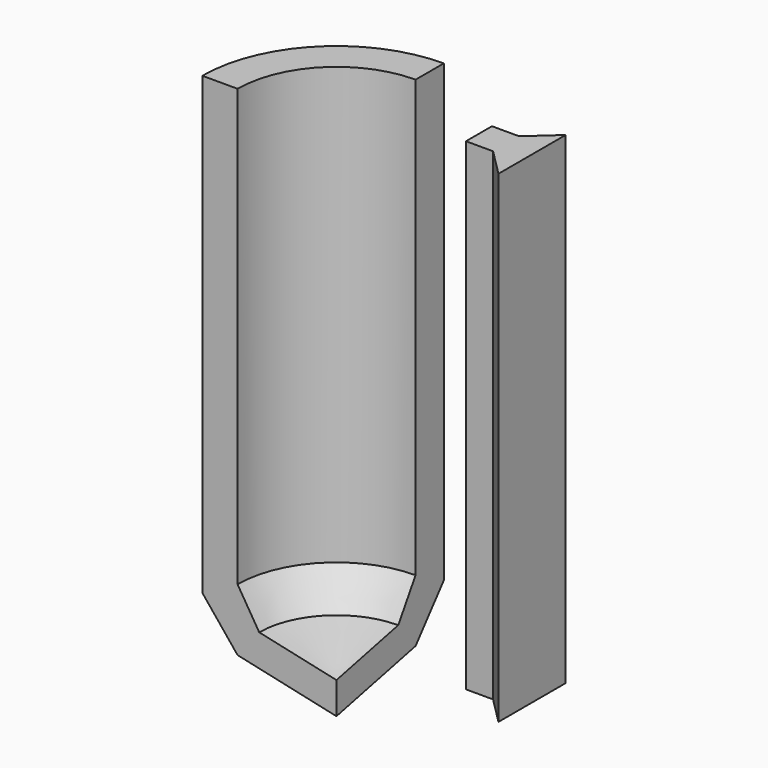
from build123d import *

# Parameters (mm, degrees)
F1_ANGLE = 90
F3_DEPTH = 50


with BuildPart() as f1:
    # F0 (on Front) → F1 (revolve)
    with BuildSketch(Plane.XZ):
        Polygon((-10.247326, 2.245989), (0, 0), (0, 3.299758), (-8.001338, 5.053476), (-10.247326, 8.703209), (-10.247326, 53.903747), (-13.897059, 53.903747), (-13.897059, 6.737968), align=None)
    revolve(axis=Axis((0, 0, 1.649879), (0, 0, -1)), revolution_arc=F1_ANGLE)


with BuildPart() as f3:
    # F2 (on Top) → F3 (new body)
    with BuildSketch(Plane.XY):
        Polygon((8.046627, 13.590597), (5.239141, 13.590597), (5.239141, 10.221612), (8.046627, 10.221612), (10.854113, 7.414125), (10.854113, 16.117334), align=None)
    extrude(amount=F3_DEPTH)


solid = Compound([f1.part, f3.part])
